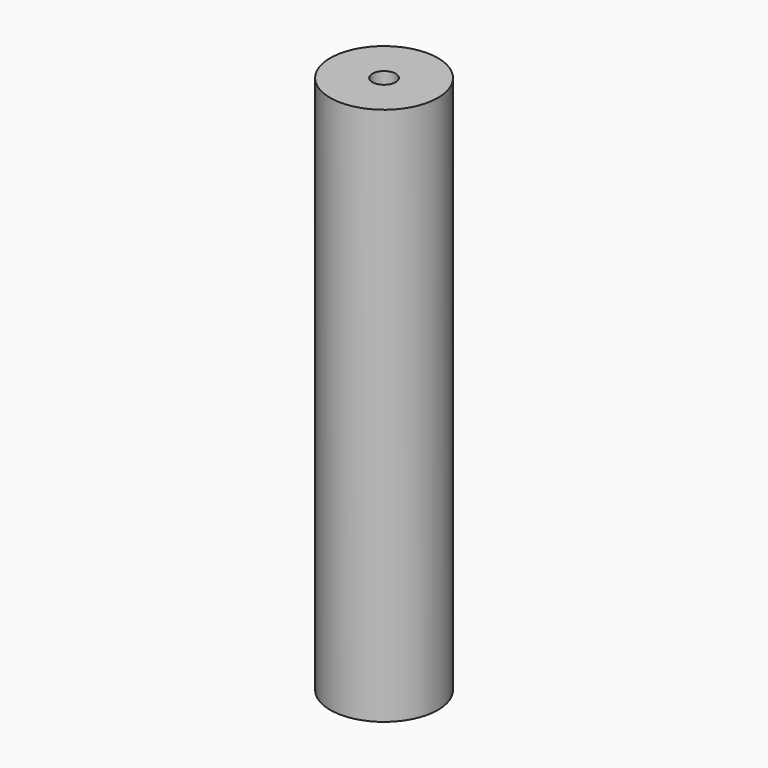
from build123d import *

# Parameters (mm, degrees)
SKETCH_R     = 6.5
PAD_DEPTH    = 65
SKETCH001_R  = 1.4
POCKET_DEPTH = 65.001


with BuildPart() as part:
    # Sketch → Pad (new body)
    with BuildSketch(Plane.XY):
        Circle(SKETCH_R)
    extrude(amount=PAD_DEPTH)

    # Sketch001 (on Face3 of Pad) → Pocket (cut, through all)
    with BuildSketch(Plane.XY.offset(65)):
        Circle(SKETCH001_R)
    extrude(amount=-POCKET_DEPTH, mode=Mode.SUBTRACT)


solid = part.part
